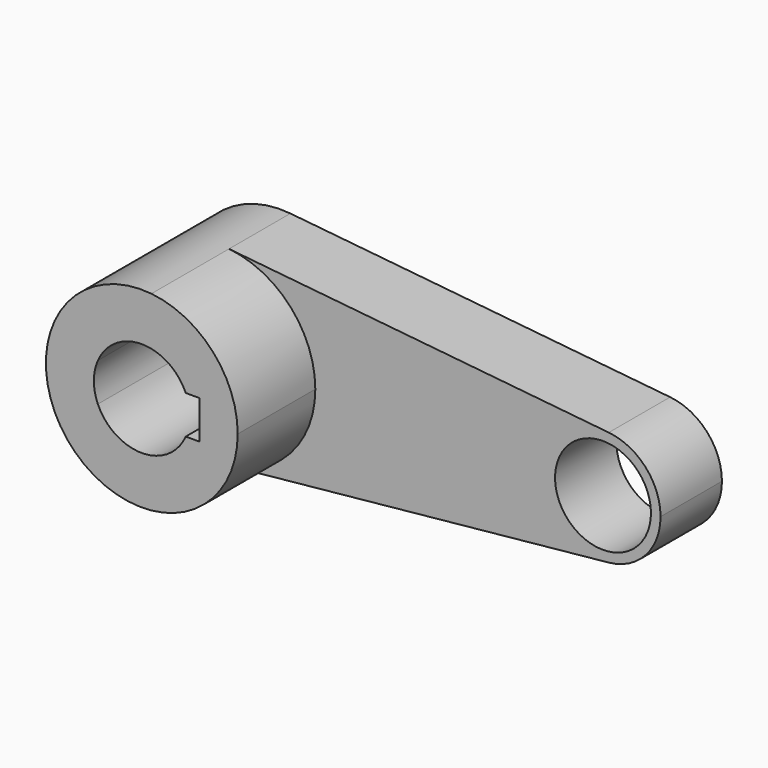
from build123d import *

# Parameters (mm, degrees)
F0_R     = 12.5
F1_DEPTH = 20
F2_DEPTH = 45.3


with BuildPart() as f1:
    # F0 (on Front) → F1 (new body)
    with BuildSketch(Plane.XZ):
        with BuildLine():
            ThreePointArc((2.5, 24.874686), (18.540496, 16.77051), (25, 0))
            ThreePointArc((25, 0), (18.540496, -16.77051), (2.5, -24.874686))
            Line((2.5, -24.874686), (101.5, -14.924812))
            ThreePointArc((101.5, -14.924812), (85, 0), (101.5, 14.924812))
            Line((101.5, 14.924812), (2.5, 24.874686))
        make_face()
        with BuildLine():
            ThreePointArc((2.5, -24.874686), (18.540496, -16.77051), (25, 0))
            ThreePointArc((25, 0), (18.540496, 16.77051), (2.5, 24.874686))
            ThreePointArc((2.5, 24.874686), (-25, 0), (2.5, -24.874686))
        make_face()
        with BuildLine():
            ThreePointArc((-11.456439, 5), (0, 12.5), (11.456439, 5))
            Line((11.456439, 5), (15, 5))
            Line((15, 5), (15, -5))
            Line((15, -5), (11.456439, -5))
            ThreePointArc((11.456439, -5), (0, -12.5), (-11.456439, -5))
            Line((-11.456439, -5), (-15, -5))
            Line((-15, -5), (-15, 5))
            Line((-15, 5), (-11.456439, 5))
        make_face(mode=Mode.SUBTRACT)
        with BuildLine():
            ThreePointArc((115, 0), (111.124298, 10.062306), (101.5, 14.924812))
            ThreePointArc((101.5, 14.924812), (85, 0), (101.5, -14.924812))
            ThreePointArc((101.5, -14.924812), (111.124298, -10.062306), (115, 0))
        make_face()
        with Locations((100, 0)):
            Circle(F0_R, mode=Mode.SUBTRACT)
        with BuildLine():
            ThreePointArc((-11.456439, -5), (-12.5, 0), (-11.456439, 5))
            Line((-11.456439, 5), (-15, 5))
            Line((-15, 5), (-15, -5))
            Line((-15, -5), (-11.456439, -5))
        make_face()
    extrude(amount=F1_DEPTH)

    # F0 (on Front) → F2 (join)
    with BuildSketch(Plane.XZ):
        with BuildLine():
            ThreePointArc((2.5, -24.874686), (18.540496, -16.77051), (25, 0))
            ThreePointArc((25, 0), (18.540496, 16.77051), (2.5, 24.874686))
            ThreePointArc((2.5, 24.874686), (-25, 0), (2.5, -24.874686))
        make_face()
        with BuildLine():
            ThreePointArc((-11.456439, 5), (0, 12.5), (11.456439, 5))
            Line((11.456439, 5), (15, 5))
            Line((15, 5), (15, -5))
            Line((15, -5), (11.456439, -5))
            ThreePointArc((11.456439, -5), (0, -12.5), (-11.456439, -5))
            Line((-11.456439, -5), (-15, -5))
            Line((-15, -5), (-15, 5))
            Line((-15, 5), (-11.456439, 5))
        make_face(mode=Mode.SUBTRACT)
        with BuildLine():
            ThreePointArc((-11.456439, -5), (-12.5, 0), (-11.456439, 5))
            Line((-11.456439, 5), (-15, 5))
            Line((-15, 5), (-15, -5))
            Line((-15, -5), (-11.456439, -5))
        make_face()
    extrude(amount=F2_DEPTH)


solid = f1.part
